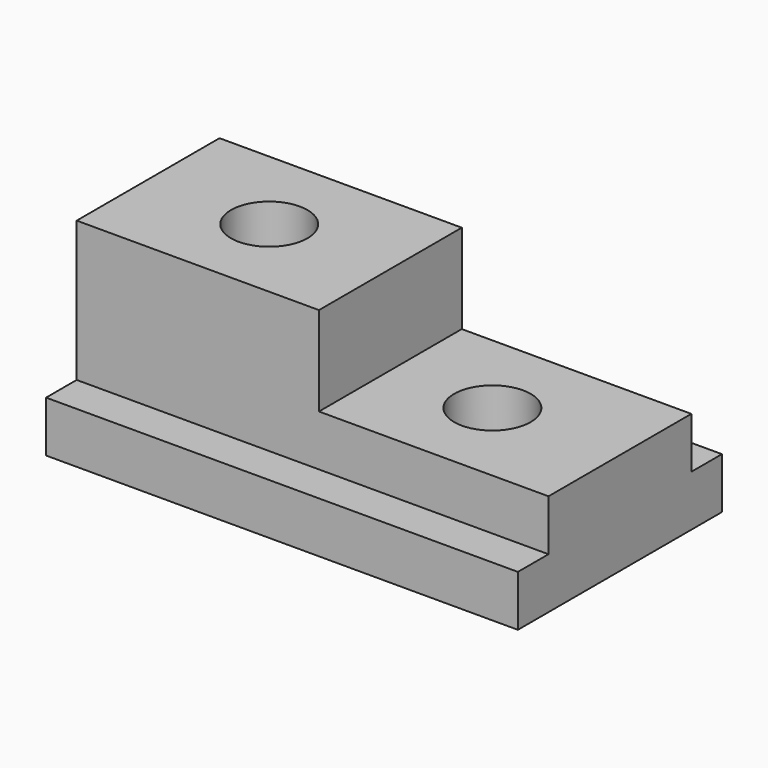
from build123d import *

# Parameters (mm, degrees)
F0_W     = 117.475
F0_H     = 63.5
F1_DEPTH = 12.7
F2_W     = 60.325
F2_H     = 44.45
F3_DEPTH = 34.925
F2_W_2   = 57.15
F4_DEPTH = 12.7
F5_R     = 9.525
F6_DEPTH = 64.77
F7_R     = 9.525
F8_DEPTH = 50.038


with BuildPart() as f1:
    # F0 (on Top) → F1 (new body)
    with BuildSketch(Plane.XY):
        with Locations((10.946326, -6.122101)):
            Rectangle(F0_W, F0_H)
    extrude(amount=F1_DEPTH)

    # F2 (on face) → F3 (join)
    with BuildSketch(Plane.XY.offset(12.7)):
        with Locations((-17.628674, -6.122101)):
            Rectangle(F2_W, F2_H)
    extrude(amount=F3_DEPTH)

    # F2 (on face) → F4 (join)
    with BuildSketch(Plane.XY.offset(12.7)):
        with Locations((41.108826, -6.122101)):
            Rectangle(F2_W_2, F2_H)
    extrude(amount=F4_DEPTH)

    # F5 (on face) → F6 (cut)
    with BuildSketch(Plane.XY.offset(47.625)):
        with Locations((-17.628674, -6.122101)):
            Circle(F5_R)
    extrude(amount=-F6_DEPTH, mode=Mode.SUBTRACT)

    # F7 (on face) → F8 (cut)
    with BuildSketch(Plane.XY.offset(25.4)):
        with Locations((37.933826, -6.122101)):
            Circle(F7_R)
    extrude(amount=-F8_DEPTH, mode=Mode.SUBTRACT)


solid = f1.part
